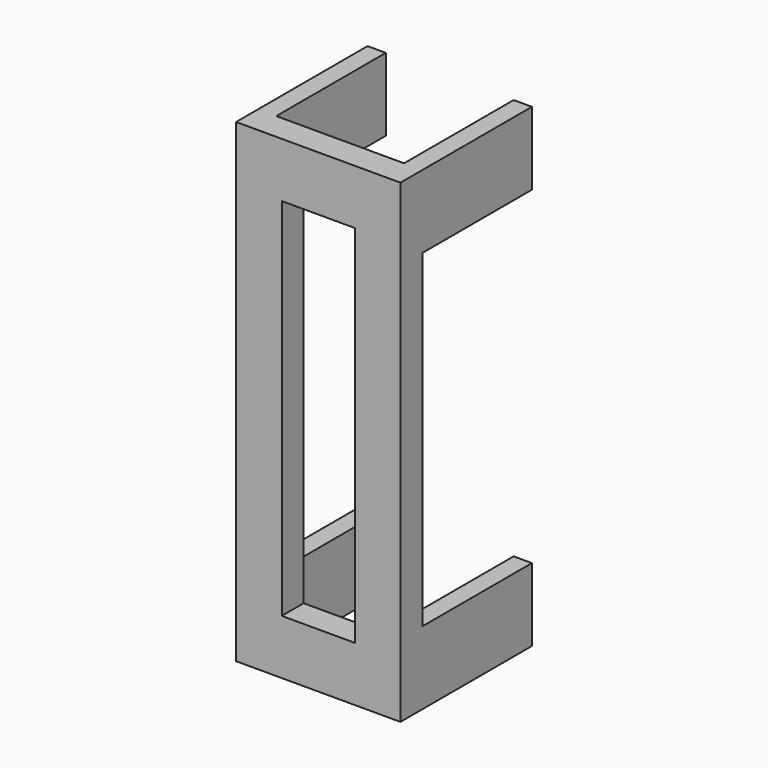
from build123d import *

# Parameters (mm, degrees)
F0_W     = 18
F0_H     = 52
F0_W_2   = 8
F0_H_2   = 40
F1_DEPTH = 3
F2_W     = 2
F2_H     = 8
F3_DEPTH = 15


with BuildPart() as f1:
    # F0 (on Front) → F1 (new body)
    with BuildSketch(Plane.XZ):
        Rectangle(F0_W, F0_H)
        Rectangle(F0_W_2, F0_H_2, mode=Mode.SUBTRACT)
    extrude(amount=F1_DEPTH)

    # F2 (on face) → F3 (join)
    with BuildSketch(Plane(origin=(0, 0, 0), x_dir=(-1, 0, 0), z_dir=(0, 1, 0))):
        with Locations((-8, 22)):
            Rectangle(F2_W, F2_H)
        with Locations((8, 22)):
            Rectangle(F2_W, F2_H)
        with Locations((8, -22)):
            Rectangle(F2_W, F2_H)
        with Locations((-8, -22)):
            Rectangle(F2_W, F2_H)
    extrude(amount=F3_DEPTH)


solid = f1.part
